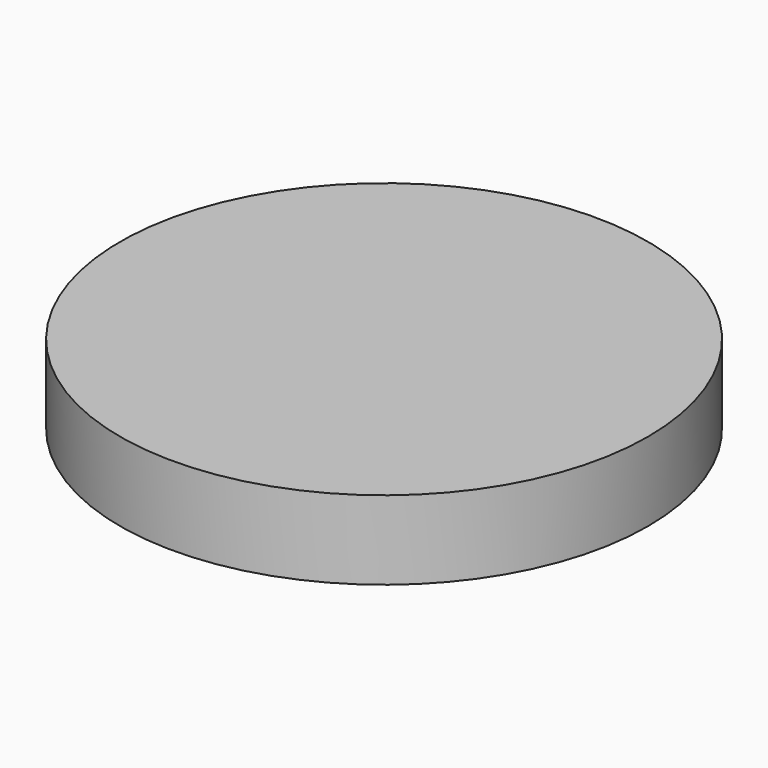
from build123d import *

# Parameters (mm, degrees)
F0_R     = 21.2725
F1_DEPTH = 3.175
F2_R     = 21.2725
F3_DEPTH = 3.175
F4_R     = 11.43
F5_DEPTH = 0.889
F6_R     = 0.635


with BuildPart() as f1:
    # F0 (on Top) → F1 (new body)
    with BuildSketch(Plane.XY):
        Circle(F0_R)
    extrude(amount=-F1_DEPTH)

    # F2 (on face) → F3 (join)
    with BuildSketch(Plane(origin=(0, 0, -3.175), x_dir=(1, 0, 0), z_dir=(0, 0, -1))):
        Circle(F2_R)
    extrude(amount=F3_DEPTH)

    # F4 (on face) → F5 (join)
    with BuildSketch(Plane(origin=(0, 0, -6.35), x_dir=(1, 0, 0), z_dir=(0, 0, -1))):
        Circle(F4_R)
    extrude(amount=F5_DEPTH)

    # F6
    f6_edges = [f1.edges().sort_by_distance(p)[0] for p in [
        (-11.43, 0, -7.239),
    ]]
    fillet(f6_edges, radius=F6_R)


solid = f1.part
